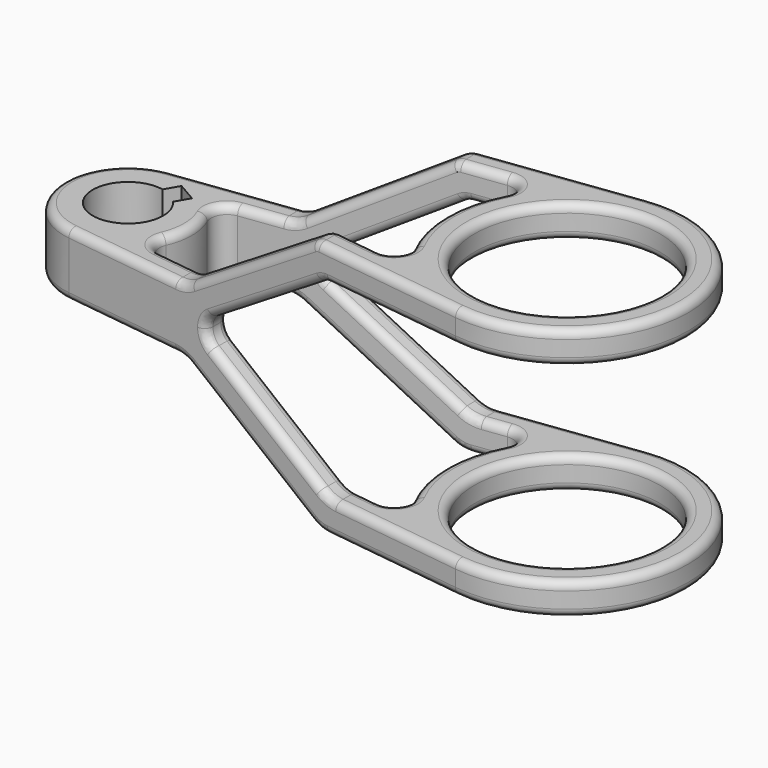
from build123d import *

# Parameters (mm, degrees)
SKETCH_R     = 36.83
PAD_DEPTH    = 57.15
PAD001_DEPTH = 57.15
FILLET_R     = 3.175


with BuildPart() as body:
    # Sketch → Pad (new body, symmetric)
    with BuildSketch(Plane.XY):
        with BuildLine():
            ThreePointArc((-3.295335, 25.185328), (-25.4, 0), (-3.295335, -25.185328))
            Line((-3.295335, -25.185328), (168.015816, -47.600271))
            ThreePointArc((168.015816, -47.600271), (222.25, 0), (168.015816, 47.600271))
            Line((-3.295335, 25.185328), (168.015816, 47.600271))
        make_face()
        with Locations((174.244, 0)):
            Circle(SKETCH_R, mode=Mode.SUBTRACT)
        with BuildLine():
            ThreePointArc((2.772505, 13.692119), (-6.985, -12.098375), (10.47147, 9.247119))
            Line((10.47147, 9.247119), (13.628483, 14.715225))
            Line((5.929517, 19.160225), (13.628483, 14.715225))
            Line((2.772505, 13.692119), (5.929517, 19.160225))
        make_face(mode=Mode.SUBTRACT)
        with BuildLine():
            ThreePointArc((131.541338, 22.483556), (125.984, 0), (131.541338, -22.483556))
            ThreePointArc((125.098733, -31.738251), (131.134112, -29.069907), (131.541338, -22.483556))
            Line((28.245193, -19.065599), (125.098733, -31.738251))
            ThreePointArc((23.255221, -10.215414), (23.537661, -15.887999), (28.245193, -19.065599))
            ThreePointArc((23.255221, -10.215414), (25.4, 0), (23.255221, 10.215414))
            ThreePointArc((28.245193, 19.065599), (23.537661, 15.887999), (23.255221, 10.215414))
            Line((28.245193, 19.065599), (125.098733, 31.738251))
            ThreePointArc((131.541338, 22.483556), (131.134112, 29.069907), (125.098733, 31.738251))
        make_face(mode=Mode.SUBTRACT)
    extrude(amount=PAD_DEPTH, both=True)


with BuildPart() as body001:
    # Sketch001 → Pad001 (new body, symmetric)
    with BuildSketch(Plane.XZ):
        with BuildLine():
            Line((44.444937, 12.7), (-31.75, 12.7))
            Line((-31.75, 12.7), (-31.75, -12.7))
            Line((-31.75, -12.7), (44.444937, -12.7))
            ThreePointArc((51.268642, -14.688929), (47.998765, -13.207367), (44.444937, -12.7))
            Line((51.268642, -14.688929), (104.829677, -48.811071))
            ThreePointArc((104.829677, -48.811071), (108.099554, -50.292633), (111.653382, -50.8))
            Line((111.653382, -50.8), (247.65, -50.8))
            Line((247.65, -38.1), (247.65, -50.8))
            Line((247.65, -38.1), (115.355095, -38.1))
            ThreePointArc((108.53139, -36.111071), (111.801266, -37.592633), (115.355095, -38.1))
            Line((108.53139, -36.111071), (60.254869, -5.355536))
            ThreePointArc((57.316721, 0), (58.099506, -3.054279), (60.254869, -5.355536))
            ThreePointArc((60.254869, 5.355536), (58.099506, 3.054279), (57.316721, 0))
            Line((108.53139, 36.111071), (60.254869, 5.355536))
            ThreePointArc((111.653382, 37.021049), (110.027429, 36.788918), (108.53139, 36.111071))
            Line((247.65, 37.021049), (111.653382, 37.021049))
            Line((247.65, 37.021049), (247.65, 49.721049))
            Line((107.95167, 49.721049), (247.65, 49.721049))
            ThreePointArc((107.95167, 49.721049), (106.325716, 49.488918), (104.829677, 48.811071))
            Line((51.268642, 14.688929), (104.829677, 48.811071))
            ThreePointArc((44.444937, 12.7), (47.998765, 13.207367), (51.268642, 14.688929))
        make_face()
    extrude(amount=PAD001_DEPTH, both=True)

    # Boolean: intersect Body
    add(body.part, mode=Mode.INTERSECT)

    # Fillet
    fillet_edges = [body001.edges().sort_by_distance(p)[0] for p in [
        (137.983743, -43.670771, 49.721049),
        (20.574801, -28.308579, -12.7),
        (222.25, 0, 49.721049),
        (137.414, 0, -38.1),
        (125.984, 0, 49.721049),
        (84.393129, 26.412189, -20.733304),
        (84.393129, -36.65879, -20.733304),
        (25.4, 0, -12.7),
        (137.414, 0, 49.721049),
        (137.414, 0, -50.8),
        (137.414, 0, 37.021049),
    ]]
    fillet(fillet_edges, radius=FILLET_R)


solid = body001.part
